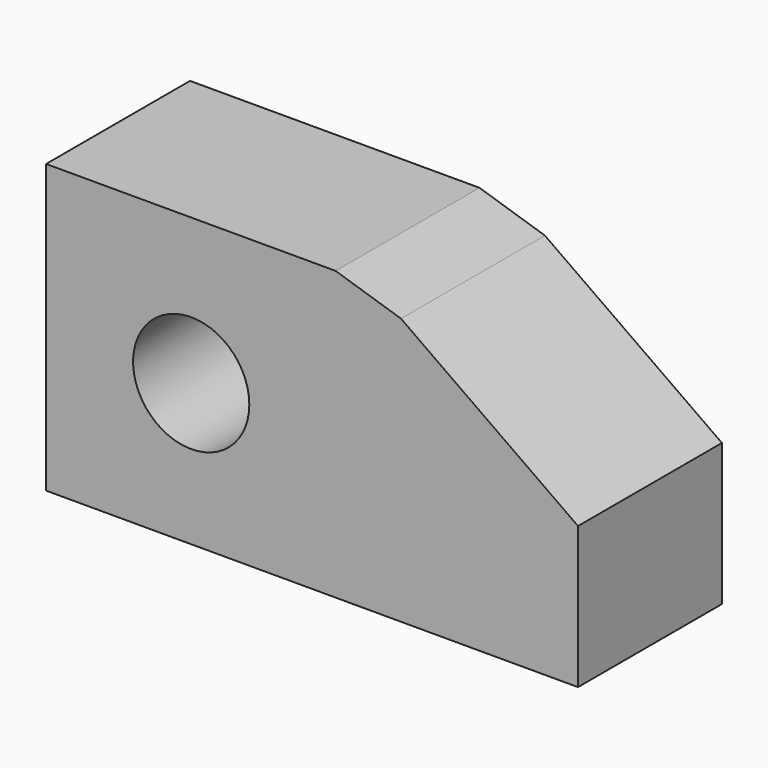
from build123d import *

# Parameters (mm, degrees)
F0_R     = 8.201166
F1_DEPTH = 25.4
F2_SIZE  = 5.08


with BuildPart() as f1:
    # F0 (on Front) → F1 (new body)
    with BuildSketch(Plane.XZ):
        Polygon((25.464479, 20.581946), (-20.489236, 20.581946), (-20.489236, -20.025678), (54.607056, -20.025678), (54.607056, 0), align=None)
        Circle(F0_R, mode=Mode.SUBTRACT)
    extrude(amount=F1_DEPTH)

    # F2
    f2_edges = [f1.edges().sort_by_distance(p)[0] for p in [
        (25.464479, -12.7, 20.581946),
    ]]
    chamfer(f2_edges, length=F2_SIZE)


solid = f1.part
